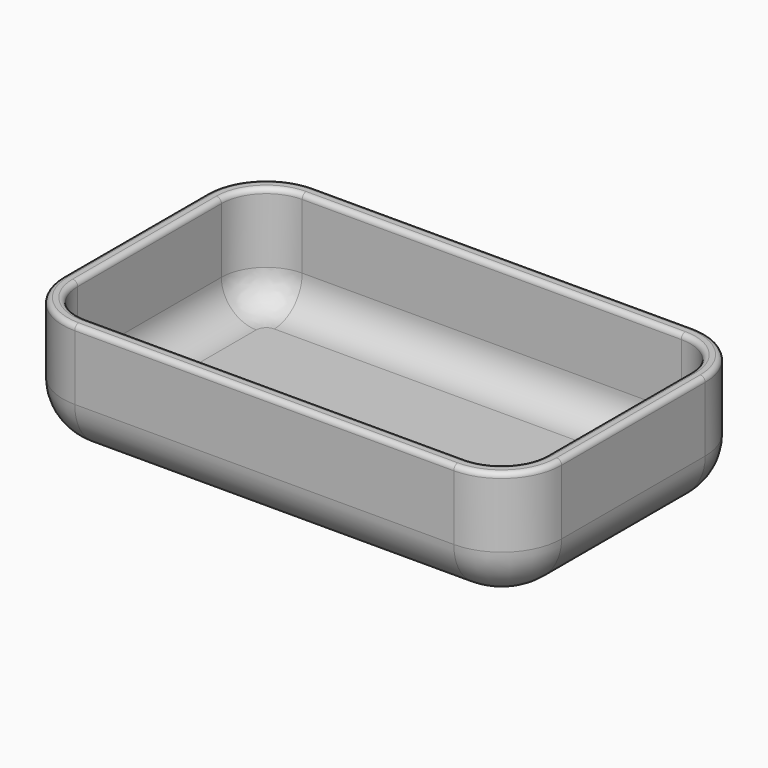
from build123d import *

# Parameters (mm, degrees)
PAD_DEPTH   = 24
FILLET_R    = 10
THICKNESS_T = -3
FILLET001_R = 1


with BuildPart() as part:
    # Sketch (on XY_Plane of Origin) → Pad (new body)
    with BuildSketch(Plane.XY):
        with BuildLine():
            Line((-38, -30), (38, -30))
            ThreePointArc((38, -30), (46.485281, -26.485281), (50, -18))
            Line((50, -18), (50, 18))
            ThreePointArc((50, 18), (46.485281, 26.485281), (38, 30))
            Line((38, 30), (-38, 30))
            ThreePointArc((-38, 30), (-46.485281, 26.485281), (-50, 18))
            Line((-50, 18), (-50, -18))
            ThreePointArc((-50, -18), (-46.485281, -26.485281), (-38, -30))
        make_face()
    extrude(amount=PAD_DEPTH)

    # Fillet
    fillet_edges = [part.edges().sort_by_distance(p)[0] for p in [
        (0, -30, 0),
    ]]
    fillet(fillet_edges, radius=FILLET_R)

    # Thickness
    thickness_openings = [part.faces().sort_by_distance(p)[0] for p in [
        (0, 0, 24),
    ]]
    offset(amount=THICKNESS_T, openings=thickness_openings)

    # Fillet001
    fillet001_edges = [part.edges().sort_by_distance(p)[0] for p in [
        (0, -30, 24),
        (-47, 0, 24),
    ]]
    fillet(fillet001_edges, radius=FILLET001_R)


solid = part.part
